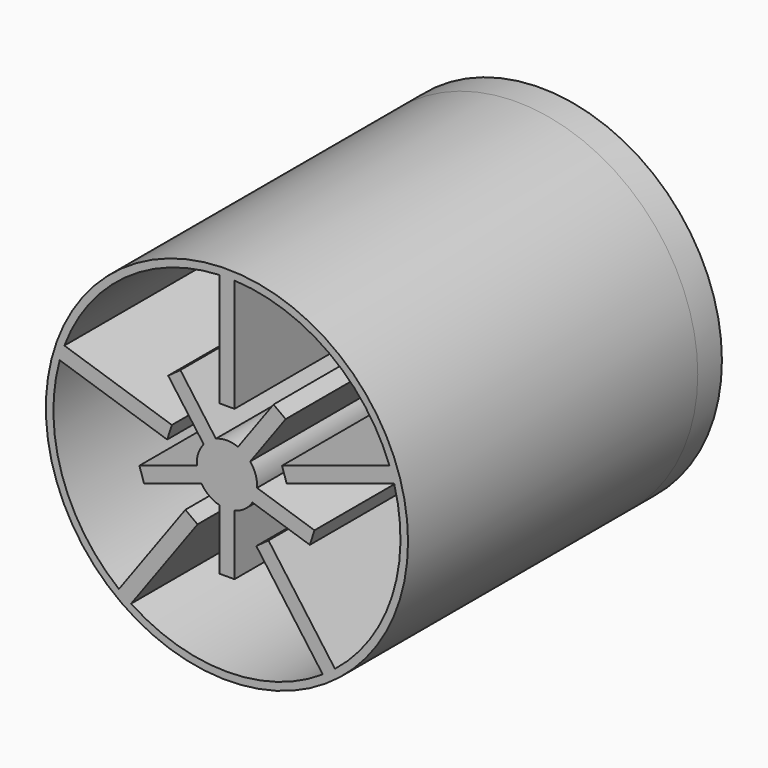
from build123d import *

# Parameters (mm, degrees)
F0_R     = 76.2
F1_DEPTH = 152.4
F2_DEPTH = 152.4
F3_R     = 76.2
F3_R_2   = 3.175
F4_DEPTH = 12.7


with BuildPart() as f1:
    # F0 (on Front) → F1 (new body)
    with BuildSketch(Plane.XZ):
        Circle(F0_R)
        with BuildLine():
            ThreePointArc((40.3138, -60.888818), (0, -73.025), (-40.3138, -60.888818))
            Line((-40.3138, -60.888818), (-12.361116, -22.41525))
            Line((-12.361116, -22.41525), (-17.498374, -18.682813))
            Line((-17.498374, -18.682813), (-45.451058, -57.156382))
            ThreePointArc((-45.451058, -57.156382), (-69.450902, -22.565966), (-70.366356, 19.525023))
            Line((-70.366356, 19.525023), (-25.137964, 4.829427))
            Line((-25.137964, 4.829427), (-23.175707, 10.868636))
            Line((-23.175707, 10.868636), (-68.404099, 25.564231))
            ThreePointArc((-68.404099, 25.564231), (-42.923018, 59.078466), (-3.175, 72.955946))
            Line((-3.175, 72.955946), (-3.175, 25.4))
            Line((-3.175, 25.4), (3.175, 25.4))
            Line((3.175, 25.4), (3.175, 72.955946))
            ThreePointArc((3.175, 72.955946), (42.923018, 59.078466), (68.404099, 25.564231))
            Line((68.404099, 25.564231), (23.175707, 10.868636))
            Line((23.175707, 10.868636), (25.137964, 4.829427))
            Line((25.137964, 4.829427), (70.366356, 19.525023))
            ThreePointArc((70.366356, 19.525023), (69.450902, -22.565966), (45.451058, -57.156382))
            Line((45.451058, -57.156382), (17.498374, -18.682813))
            Line((17.498374, -18.682813), (12.361116, -22.41525))
            Line((12.361116, -22.41525), (40.3138, -60.888818))
        make_face(mode=Mode.SUBTRACT)
    extrude(amount=F1_DEPTH)


with BuildPart() as f2:
    # F0 (on Front) → F2 (new body)
    with BuildSketch(Plane.XZ):
        with BuildLine():
            Line((-34.870584, -14.668532), (-10.713749, -6.819501))
            ThreePointArc((-10.713749, -6.819501), (-7.464873, -10.274516), (-3.175, -12.296722))
            Line((-3.175, -12.296722), (-3.175, -37.696722))
            Line((-3.175, -37.696722), (3.175, -37.696722))
            Line((3.175, -37.696722), (3.175, -12.296722))
            ThreePointArc((3.175, -12.296722), (7.464873, -10.274516), (10.713749, -6.819501))
            Line((10.713749, -6.819501), (34.870584, -14.668532))
            Line((34.870584, -14.668532), (36.832842, -8.629323))
            Line((36.832842, -8.629323), (12.676007, -0.780292))
            ThreePointArc((12.676007, -0.780292), (12.078418, 3.924516), (9.796461, 8.082039))
            Line((9.796461, 8.082039), (24.726206, 28.631071))
            Line((24.726206, 28.631071), (19.588948, 32.363507))
            Line((19.588948, 32.363507), (4.659203, 11.814475))
            ThreePointArc((4.659203, 11.814475), (0, 12.7), (-4.659203, 11.814475))
            Line((-4.659203, 11.814475), (-19.588948, 32.363507))
            Line((-19.588948, 32.363507), (-24.726206, 28.631071))
            Line((-24.726206, 28.631071), (-9.796461, 8.082039))
            ThreePointArc((-9.796461, 8.082039), (-12.078418, 3.924516), (-12.676007, -0.780292))
            Line((-12.676007, -0.780292), (-36.832842, -8.629323))
            Line((-36.832842, -8.629323), (-34.870584, -14.668532))
        make_face()
    extrude(amount=F2_DEPTH)


with BuildPart() as f4:
    # F3 (on face) → F4 (new body)
    with BuildSketch(Plane.XZ):
        Circle(F3_R)
        with Locations((-48.313671, -15.698063)):
            Circle(F3_R_2, mode=Mode.SUBTRACT)
        with Locations((0, -50.8)):
            Circle(F3_R_2, mode=Mode.SUBTRACT)
        with Locations((48.313671, -15.698063)):
            Circle(F3_R_2, mode=Mode.SUBTRACT)
        with Locations((-29.859491, 41.098063)):
            Circle(F3_R_2, mode=Mode.SUBTRACT)
        with Locations((29.859491, 41.098063)):
            Circle(F3_R_2, mode=Mode.SUBTRACT)
    extrude(amount=-F4_DEPTH)


solid = Compound([f1.part, f2.part, f4.part])
